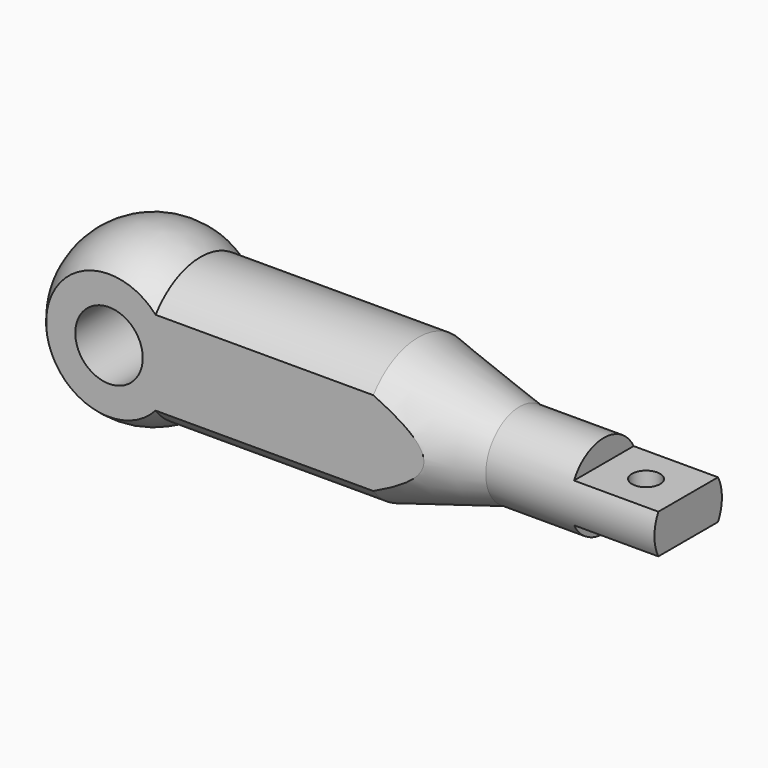
from build123d import *

# Parameters (mm, degrees)
F2_W          = 15
F2_H          = 4
F3_DEPTH      = 15.001
F3_DEPTH_BACK = 15.001
F5_DEPTH      = 110.001
F6_R          = 6
F7_DEPTH      = 20.001
F8_R          = 2.5
F9_DEPTH      = 18.501


with BuildPart() as f1:
    # F0 (on Front) → F1 (revolve)
    with BuildSketch(Plane.XZ):
        with BuildLine():
            ThreePointArc((8.2915619759, 12.5), (-7.0931858273, 13.2169101843), (-15, 0))
            Line((-15, 0), (95, 0))
            Line((95, 0), (95, 7.5))
            Line((95, 7.5), (65, 7.5))
            Line((65, 7.5), (47, 12.5))
            Line((47, 12.5), (8.2915619759, 12.5))
        make_face()
    revolve(axis=Axis((40, 0, 0), (-1, 0, 0)))

    # F2 (on Front) → F3 (cut, two sides)
    with BuildSketch(Plane.XZ) as f3_sk:
        with Locations((87.5, 5.5)):
            Rectangle(F2_W, F2_H)
        with Locations((87.5, -5.5)):
            Rectangle(F2_W, F2_H)
    extrude(amount=-F3_DEPTH, mode=Mode.SUBTRACT)
    extrude(f3_sk.sketch, amount=F3_DEPTH_BACK, mode=Mode.SUBTRACT)

    # F4 (on face) → F5 (cut, through all)
    with BuildSketch(Plane.YZ.offset(95)):
        with BuildLine():
            Line((-10, -11.1803398875), (-10, 11.1803398875))
            ThreePointArc((-10, 11.1803398875), (-15, 0), (-10, -11.1803398875))
        make_face()
        with BuildLine():
            Line((10, 11.1803398875), (10, -11.1803398875))
            ThreePointArc((10, -11.1803398875), (15, 0), (10, 11.1803398875))
        make_face()
    extrude(amount=-F5_DEPTH, mode=Mode.SUBTRACT)

    # F6 (on face) → F7 (cut, through all)
    with BuildSketch(Plane.XZ.offset(10)):
        Circle(F6_R)
    extrude(amount=-F7_DEPTH, mode=Mode.SUBTRACT)

    # F8 (on face) → F9 (cut, through all)
    with BuildSketch(Plane.XY.offset(3.5)):
        with Locations((87.5, 0)):
            Circle(F8_R)
    extrude(amount=-F9_DEPTH, mode=Mode.SUBTRACT)


solid = f1.part
